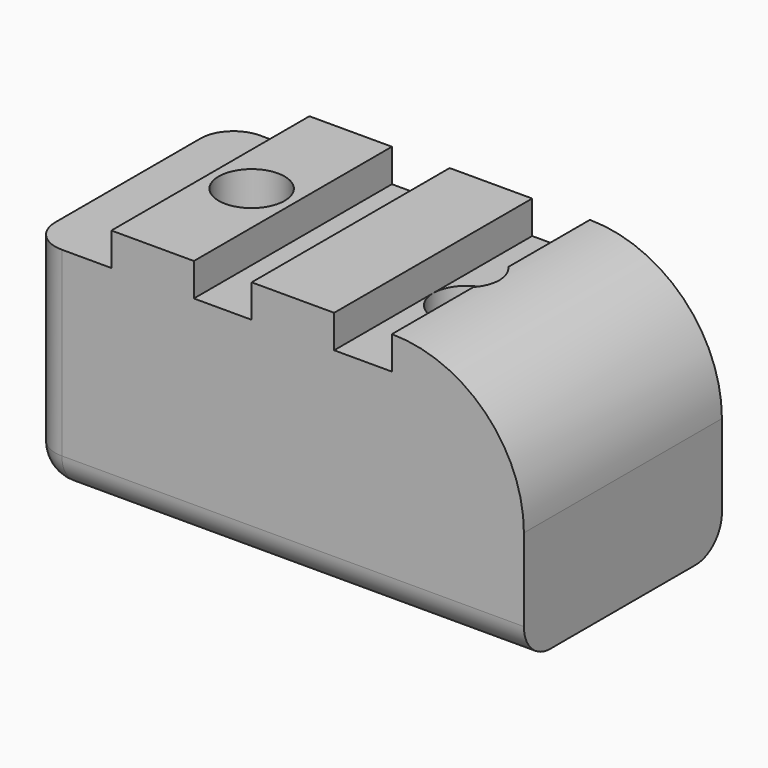
from build123d import *

# Parameters (mm, degrees)
PAD_DEPTH    = 15
SKETCH001_R  = 2
POCKET_DEPTH = 15
CHAMFER_SIZE = 1.5
FILLET_R     = 2


with BuildPart() as part:
    # Sketch → Pad (new body)
    with BuildSketch(Plane.XZ):
        with BuildLine():
            Line((0, 0), (30, 0))
            Line((30, 0), (30, 7))
            ThreePointArc((30, 7), (27.656854, 12.656854), (22, 15))
            Line((22, 15), (22, 13))
            Line((22, 13), (18.5, 13))
            Line((18.5, 13), (18.5, 15))
            Line((18.5, 15), (13.5, 15))
            Line((13.5, 15), (13.5, 13))
            Line((13.5, 13), (10, 13))
            Line((10, 13), (10, 15))
            Line((10, 15), (5, 15))
            Line((5, 15), (5, 13))
            Line((5, 13), (0, 13))
            Line((0, 13), (0, 0))
        make_face()
    extrude(amount=PAD_DEPTH)

    # Sketch001 (on Face1 of Pad) → Pocket (cut)
    with BuildSketch(Plane(origin=(0, 0, 0), x_dir=(1, 0, 0), z_dir=(0, 0, -1))):
        with Locations((7.5, 7.5)):
            Circle(SKETCH001_R)
        with Locations((20.5, 7.5)):
            Circle(SKETCH001_R)
    extrude(amount=-POCKET_DEPTH, mode=Mode.SUBTRACT)

    # Chamfer
    chamfer_edges = [part.edges().sort_by_distance(p)[0] for p in [
        (5.5, -7.5, 0),
        (18.5, -7.5, 0),
    ]]
    chamfer(chamfer_edges, length=CHAMFER_SIZE)

    # Fillet
    fillet_edges = [part.edges().sort_by_distance(p)[0] for p in [
        (0, -15, 6.5),
        (0, 0, 6.5),
        (0, -7.5, 0),
        (15, -15, 0),
        (15, 0, 0),
    ]]
    fillet(fillet_edges, radius=FILLET_R)


solid = part.part
